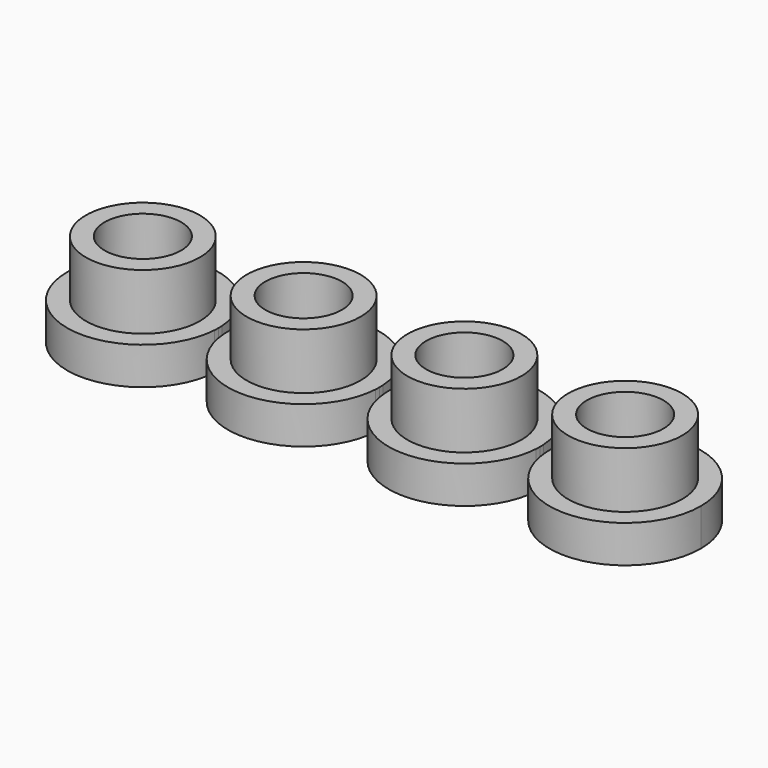
from build123d import *

# Parameters (mm, degrees)
F0_R     = 3.05
F0_R_2   = 2.05
F1_DEPTH = 5
F2_DEPTH = 2
F3_DEPTH = 0.5


with BuildPart() as f1:
    # F0 (on Top) → F1 (new body)
    with BuildSketch(Plane.XY):
        with Locations((-31.2889043277, -23.0932135019)):
            Circle(F0_R)
        with Locations((-31.2889043277, -23.0932135019)):
            Circle(F0_R_2, mode=Mode.SUBTRACT)
    extrude(amount=F1_DEPTH)

    # F0 (on Top) → F2 (join)
    with BuildSketch(Plane.XY):
        with BuildLine():
            ThreePointArc((-27.2466277414, -23.3432135019), (-27.2408356416, -23.2182731388), (-27.2389043277, -23.0932135019))
            ThreePointArc((-27.2389043277, -23.0932135019), (-27.2408356416, -22.9681538651), (-27.2466277414, -22.8432135019))
            ThreePointArc((-27.2466277414, -22.8432135019), (-35.3389043277, -23.0932135019), (-27.2466277414, -23.3432135019))
        make_face()
        with Locations((-31.2889043277, -23.0932135019)):
            Circle(F0_R, mode=Mode.SUBTRACT)
        with Locations((-31.2889043277, -23.0932135019)):
            Circle(F0_R_2)
    extrude(amount=F2_DEPTH)



with BuildPart() as f1b:
    # F0 (on Top) → F1, piece 2 (new body)
    with BuildSketch(Plane.XY):
        with Locations((-22.6889043277, -23.0932135019)):
            Circle(F0_R)
        with Locations((-22.6889043277, -23.0932135019)):
            Circle(F0_R_2, mode=Mode.SUBTRACT)
    extrude(amount=F1_DEPTH)

    # F0 (on Top) → F2, piece 2 (join)
    with BuildSketch(Plane.XY):
        with BuildLine():
            ThreePointArc((-18.6466277414, -22.8432135019), (-22.6889043277, -19.0432135019), (-26.731180914, -22.8432135019))
            ThreePointArc((-26.731180914, -22.8432135019), (-26.7389043277, -23.0932135019), (-26.731180914, -23.3432135019))
            ThreePointArc((-26.731180914, -23.3432135019), (-22.6889043277, -27.1432135019), (-18.6466277414, -23.3432135019))
            ThreePointArc((-18.6466277414, -23.3432135019), (-18.6408356416, -23.2182731388), (-18.6389043277, -23.0932135019))
            ThreePointArc((-18.6389043277, -23.0932135019), (-18.6408356416, -22.9681538651), (-18.6466277414, -22.8432135019))
        make_face()
        with Locations((-22.6889043277, -23.0932135019)):
            Circle(F0_R, mode=Mode.SUBTRACT)
        with Locations((-22.6889043277, -23.0932135019)):
            Circle(F0_R_2)
    extrude(amount=F2_DEPTH)


with BuildPart() as f1c:
    # F0 (on Top) → F1, piece 3 (new body)
    with BuildSketch(Plane.XY):
        with Locations((-14.0889043277, -23.0932135019)):
            Circle(F0_R)
        with Locations((-14.0889043277, -23.0932135019)):
            Circle(F0_R_2, mode=Mode.SUBTRACT)
    extrude(amount=F1_DEPTH)

    # F0 (on Top) → F2, piece 3 (join)
    with BuildSketch(Plane.XY):
        with BuildLine():
            ThreePointArc((-10.0466277414, -22.8432135019), (-14.0889043277, -19.0432135019), (-18.131180914, -22.8432135019))
            ThreePointArc((-18.131180914, -22.8432135019), (-18.1389043277, -23.0932135019), (-18.131180914, -23.3432135019))
            ThreePointArc((-18.131180914, -23.3432135019), (-14.0889043277, -27.1432135019), (-10.0466277414, -23.3432135019))
            ThreePointArc((-10.0466277414, -23.3432135019), (-10.0408356416, -23.2182731388), (-10.0389043277, -23.0932135019))
            ThreePointArc((-10.0389043277, -23.0932135019), (-10.0408356416, -22.9681538651), (-10.0466277414, -22.8432135019))
        make_face()
        with Locations((-14.0889043277, -23.0932135019)):
            Circle(F0_R, mode=Mode.SUBTRACT)
        with Locations((-14.0889043277, -23.0932135019)):
            Circle(F0_R_2)
    extrude(amount=F2_DEPTH)


with BuildPart() as f1d:
    # F0 (on Top) → F1, piece 4 (new body)
    with BuildSketch(Plane.XY):
        with Locations((-5.4889043277, -23.0932135019)):
            Circle(F0_R)
        with Locations((-5.4889043277, -23.0932135019)):
            Circle(F0_R_2, mode=Mode.SUBTRACT)
    extrude(amount=F1_DEPTH)

    # F0 (on Top) → F2, piece 4 (join)
    with BuildSketch(Plane.XY):
        with BuildLine():
            ThreePointArc((-1.4389043277, -23.0932135019), (-5.3638446908, -19.0451448159), (-9.531180914, -22.8432135019))
            ThreePointArc((-9.531180914, -22.8432135019), (-9.5389043277, -23.0932135019), (-9.531180914, -23.3432135019))
            ThreePointArc((-9.531180914, -23.3432135019), (-5.3638446908, -27.141282188), (-1.4389043277, -23.0932135019))
        make_face()
        with Locations((-5.4889043277, -23.0932135019)):
            Circle(F0_R, mode=Mode.SUBTRACT)
        with Locations((-5.4889043277, -23.0932135019)):
            Circle(F0_R_2)
    extrude(amount=F2_DEPTH)


with BuildPart() as f1_1:
    add(f1.part)

    add(f1b.part)  # F3 merges F1b

    add(f1c.part)  # F3 merges F1c

    add(f1d.part)  # F3 merges F1d
    # F0 (on Top) → F3 (join)
    with BuildSketch(Plane.XY):
        with BuildLine():
            ThreePointArc((-27.2466277414, -22.8432135019), (-27.2408356416, -22.9681538651), (-27.2389043277, -23.0932135019))
            ThreePointArc((-27.2389043277, -23.0932135019), (-27.2408356416, -23.2182731388), (-27.2466277414, -23.3432135019))
            Line((-27.2466277414, -23.3432135019), (-26.731180914, -23.3432135019))
            ThreePointArc((-26.731180914, -23.3432135019), (-26.7389043277, -23.0932135019), (-26.731180914, -22.8432135019))
            Line((-26.731180914, -22.8432135019), (-27.2466277414, -22.8432135019))
        make_face()
        with BuildLine():
            Line((-18.131180914, -22.8432135019), (-18.6466277414, -22.8432135019))
            ThreePointArc((-18.6466277414, -22.8432135019), (-18.6408356416, -22.9681538651), (-18.6389043277, -23.0932135019))
            ThreePointArc((-18.6389043277, -23.0932135019), (-18.6408356416, -23.2182731388), (-18.6466277414, -23.3432135019))
            Line((-18.6466277414, -23.3432135019), (-18.131180914, -23.3432135019))
            ThreePointArc((-18.131180914, -23.3432135019), (-18.1389043277, -23.0932135019), (-18.131180914, -22.8432135019))
        make_face()
        with BuildLine():
            Line((-9.531180914, -22.8432135019), (-10.0466277414, -22.8432135019))
            ThreePointArc((-10.0466277414, -22.8432135019), (-10.0408356416, -22.9681538651), (-10.0389043277, -23.0932135019))
            ThreePointArc((-10.0389043277, -23.0932135019), (-10.0408356416, -23.2182731388), (-10.0466277414, -23.3432135019))
            Line((-10.0466277414, -23.3432135019), (-9.531180914, -23.3432135019))
            ThreePointArc((-9.531180914, -23.3432135019), (-9.5389043277, -23.0932135019), (-9.531180914, -22.8432135019))
        make_face()
    extrude(amount=F3_DEPTH)


solid = f1_1.part
